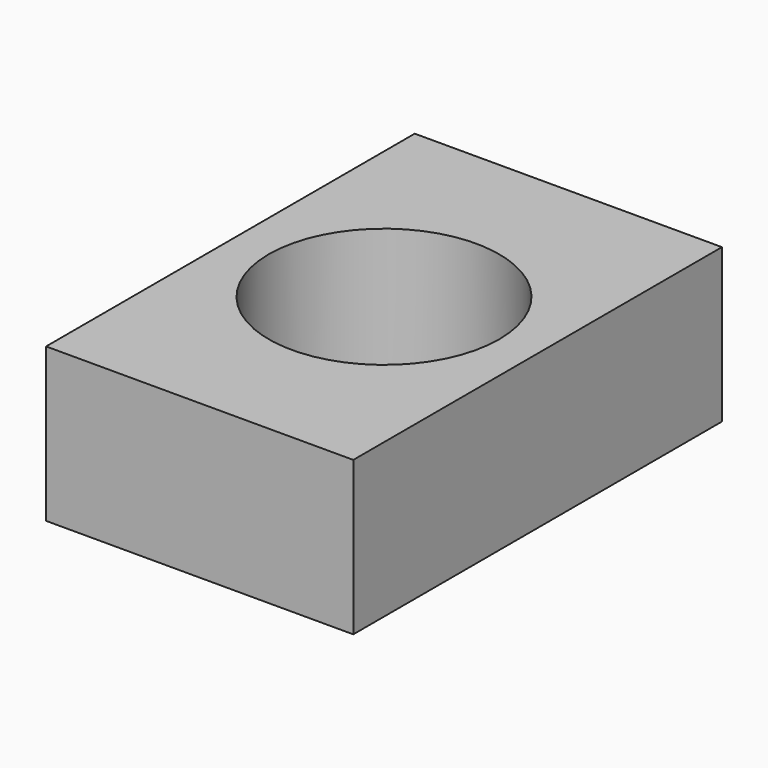
from build123d import *

# Parameters (mm, degrees)
F0_W     = 50.8
F0_H     = 76.2
F1_DEPTH = 12.7
F2_R     = 19.05
F3_DEPTH = 25.401


with BuildPart() as f1:
    # F0 (on Top) → F1 (new body, symmetric)
    with BuildSketch(Plane.XY):
        Rectangle(F0_W, F0_H)
    extrude(amount=F1_DEPTH, both=True)

    # F2 (on face) → F3 (cut, through all)
    with BuildSketch(Plane.XY.offset(12.7)):
        Circle(F2_R)
    extrude(amount=-F3_DEPTH, mode=Mode.SUBTRACT)


solid = f1.part
